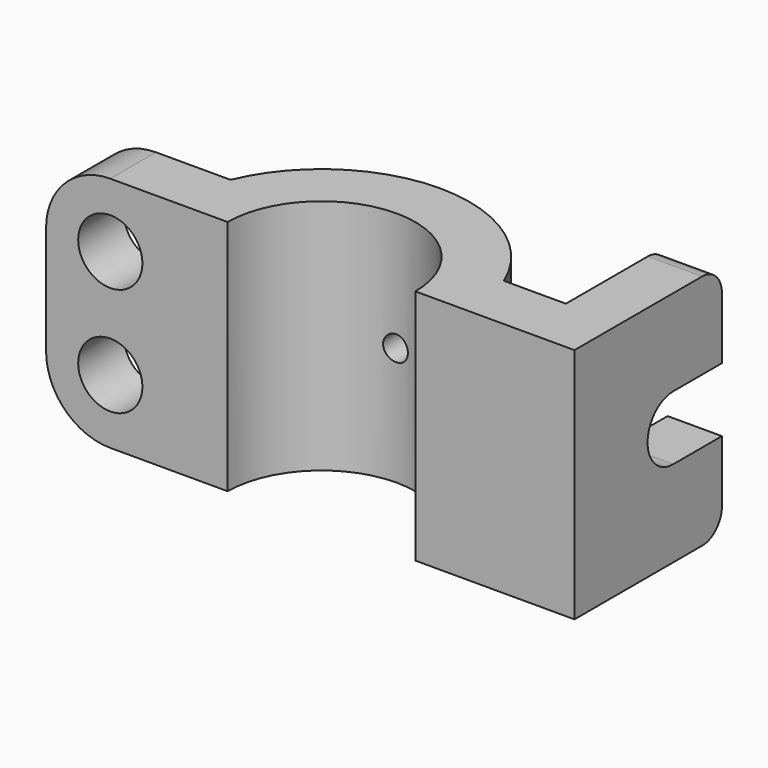
from build123d import *

# Parameters (mm, degrees)
F1_DEPTH        = 48
F2_R            = 5
F4_DEPTH        = 11
F5_R            = 13
F6_R            = 6.5
F7_DEPTH        = 25
F10_D           = 5
F10_START       = 0.4342628
F10_CBORE_D     = 10
F10_CBORE_DEPTH = 2


with BuildPart() as f1:
    # F0 (on Top) → F1 (new body)
    with BuildSketch(Plane.XY):
        with BuildLine():
            Line((-8.6803510502, 11.5671157052), (-36.7703510502, 11.5671157052))
            Line((-36.7703510502, 11.5671157052), (-36.7703510502, 0))
            Line((-36.7703510502, 0), (0, 0))
            ThreePointArc((0, 0), (19, 19), (38, 0))
            Line((38, 0), (70.2296489498, 0))
            Line((70.2296489498, 0), (70.2296489498, 37.3193000675))
            Line((70.2296489498, 37.3193000675), (59.2296489498, 37.3193000675))
            Line((59.2296489498, 37.3193000675), (59.2296489498, 11.5671157052))
            Line((59.2296489498, 11.5671157052), (46.6803510502, 11.5671157052))
            ThreePointArc((46.6803510502, 11.5671157052), (19, 30), (-8.6803510502, 11.5671157052))
        make_face()
    extrude(amount=F1_DEPTH)

    # F2
    f2_edges = [f1.edges().sort_by_distance(p)[0] for p in [
        (64.729649, 37.3193, 48),
        (64.729649, 37.3193, 0),
    ]]
    fillet(f2_edges, radius=F2_R)

    # F3 (on face) → F4 (cut)
    with BuildSketch(Plane.YZ.offset(70.2296489498)):
        with BuildLine():
            Line((37.3193000675, 17.5), (37.3193000675, 30.5))
            Line((37.3193000675, 30.5), (25, 30.5))
            ThreePointArc((25, 30.5), (18.5, 24), (25, 17.5))
            Line((25, 17.5), (37.3193000675, 17.5))
        make_face()
    extrude(amount=-F4_DEPTH, mode=Mode.SUBTRACT)

    # F5
    f5_edges = [f1.edges().sort_by_distance(p)[0] for p in [
        (-36.770351, 5.783558, 48),
        (-36.770351, 5.783558, 0),
    ]]
    fillet(f5_edges, radius=F5_R)

    # F6 (on face) → F7 (cut)
    with BuildSketch(Plane(origin=(0, 11.5671157052, 0), x_dir=(-1, 0, 0), z_dir=(0, 1, 0))):
        with Locations((23.7703510502, 13)):
            Circle(F6_R)
        with Locations((23.7703510502, 35)):
            Circle(F6_R)
    extrude(amount=-F7_DEPTH, mode=Mode.SUBTRACT)

    # F10 (through all)
    # its depths count from where the whole tool has entered the part; down to there all is cleared
    with Locations(Plane(origin=(0, 30, 0), x_dir=(1, 0, 0), z_dir=(0, 1, 0)).offset(-F10_START)):
        with Locations((18.9140215516, -23.9382665604)):
            CounterBoreHole(F10_D / 2, F10_CBORE_D / 2, F10_CBORE_DEPTH)


solid = f1.part
